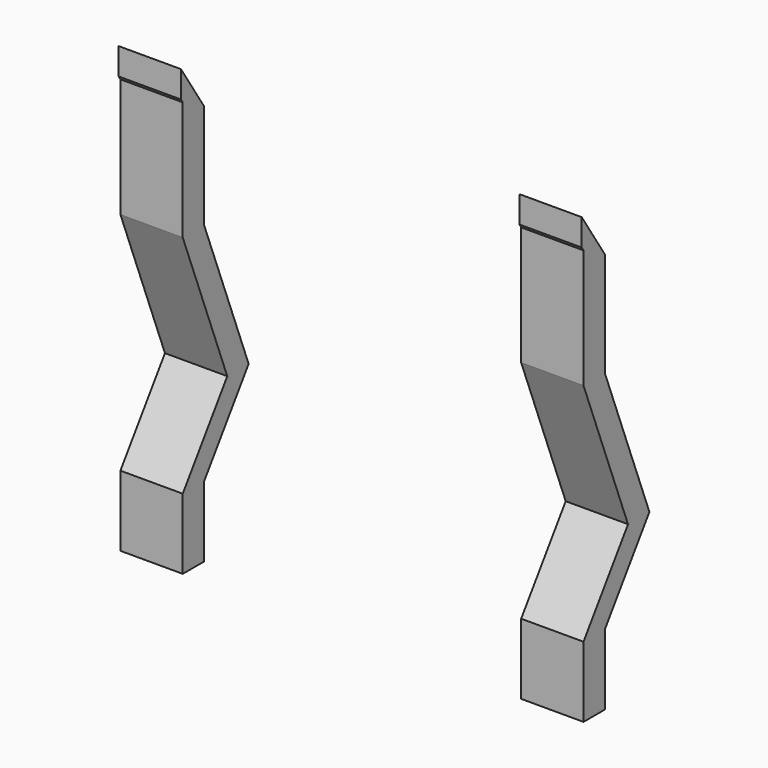
from build123d import *

# Parameters (mm, degrees)
PAD_DEPTH     = 0.7
PAD001_DEPTH  = 0.7
ARRAY_X_COUNT = 2
ARRAY_X_PITCH = 4.5


with BuildPart() as array:
    # Sketch → Pad (new body)
    with BuildSketch(Plane.YZ):
        Polygon((-3.325, 0), (-3.325, 0.79267), (-3.95, 1.7), (-3.325, 3.325), (-3.325, 4.500042), (-3, 5), (-2.999594, 4.7), (-3.025, 4.660917), (-3.025, 3.325), (-3.65, 1.7), (-3.025, 0.79267), (-3.025, 0), align=None)
    extrude(amount=PAD_DEPTH)

    # Sketch → Pad001 (join)
    with BuildSketch(Plane.YZ):
        Polygon((-3.325, 0), (-3.325, 0.79267), (-3.95, 1.7), (-3.325, 3.325), (-3.325, 4.500042), (-3, 5), (-2.999594, 4.7), (-3.025, 4.660917), (-3.025, 3.325), (-3.65, 1.7), (-3.025, 0.79267), (-3.025, 0), align=None)
    extrude(amount=PAD001_DEPTH)

    # Array X: Array ×2


with BuildPart() as array_1:
    add(array.part)
    with Locations(*[(i * ARRAY_X_PITCH, 0, 0) for i in range(1, ARRAY_X_COUNT)]):
        add(array.part)


with BuildPart() as array_2:
    # Array placement: moved
    add(array_1.part.moved(Location((-2.6, 0, 0))))


with BuildPart() as part_mirroring:
    # Part__Mirroring: instance of Array
    add(array_2.part.mirror(Plane(origin=(0, 0, 0), x_dir=(1, 0, 0), z_dir=(0, 1, 0))))


with BuildPart() as part_mirroring_1:
    # Part__Mirroring placement: moved
    add(part_mirroring.part.moved(Location((0, 0.01, 0))))


solid = part_mirroring_1.part
